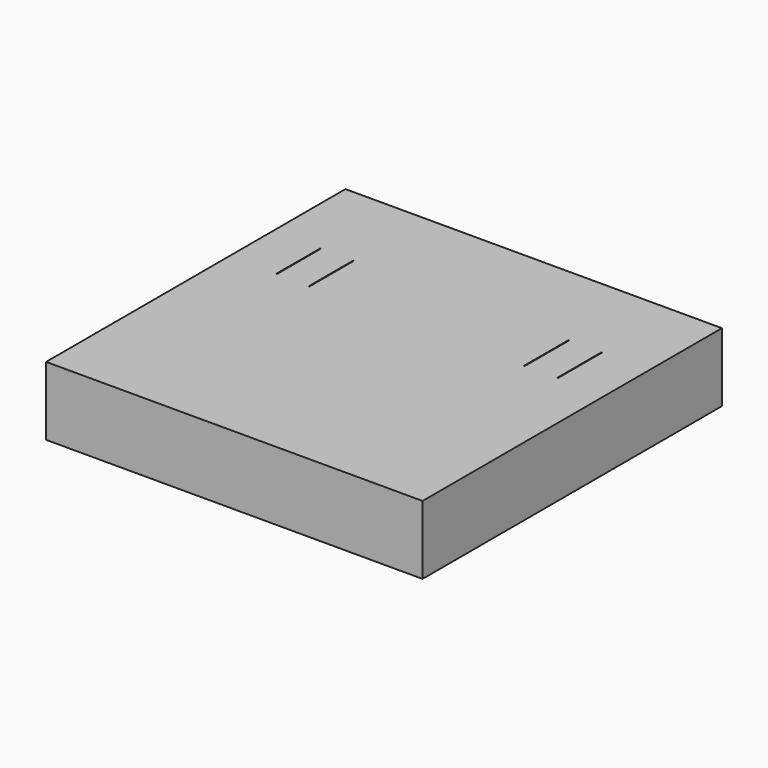
from build123d import *

# Parameters (mm, degrees)
F0_W     = 137.1241360903
F0_H     = 136.2980902195
F1_DEPTH = 25


with BuildPart() as f1:
    # F0 (on Top) → F1 (new body)
    with BuildSketch(Plane.XY):
        Rectangle(F0_W, F0_H)
        with BuildLine():
            Line((-51.3400377035, 15.006557107), (-51.3400377035, 35.006557107))
            ThreePointArc((-51.3400377035, 35.006557107), (-51.2150377035, 35.131557107), (-51.0900377035, 35.006557107))
            Line((-51.0900377035, 35.006557107), (-51.0900377035, 15.006557107))
            ThreePointArc((-51.0900377035, 15.006557107), (-51.2150377035, 14.881557107), (-51.3400377035, 15.006557107))
        make_face(mode=Mode.SUBTRACT)
        with BuildLine():
            Line((-39.3400377035, 15.006557107), (-39.3400377035, 35.006557107))
            ThreePointArc((-39.3400377035, 35.006557107), (-39.2150377035, 35.131557107), (-39.0900377035, 35.006557107))
            Line((-39.0900377035, 35.006557107), (-39.0900377035, 15.006557107))
            ThreePointArc((-39.0900377035, 15.006557107), (-39.2150377035, 14.881557107), (-39.3400377035, 15.006557107))
        make_face(mode=Mode.SUBTRACT)
        with BuildLine():
            ThreePointArc((39.0900377035, 35.006557107), (39.2150377035, 35.131557107), (39.3400377035, 35.006557107))
            Line((39.3400377035, 35.006557107), (39.3400377035, 15.006557107))
            ThreePointArc((39.3400377035, 15.006557107), (39.2150377035, 14.881557107), (39.0900377035, 15.006557107))
            Line((39.0900377035, 15.006557107), (39.0900377035, 35.006557107))
        make_face(mode=Mode.SUBTRACT)
        with BuildLine():
            ThreePointArc((51.3400377035, 15.006557107), (51.2150377035, 14.881557107), (51.0900377035, 15.006557107))
            Line((51.0900377035, 15.006557107), (51.0900377035, 35.006557107))
            ThreePointArc((51.0900377035, 35.006557107), (51.2150377035, 35.131557107), (51.3400377035, 35.006557107))
            Line((51.3400377035, 35.006557107), (51.3400377035, 15.006557107))
        make_face(mode=Mode.SUBTRACT)
    extrude(amount=F1_DEPTH)


solid = f1.part
